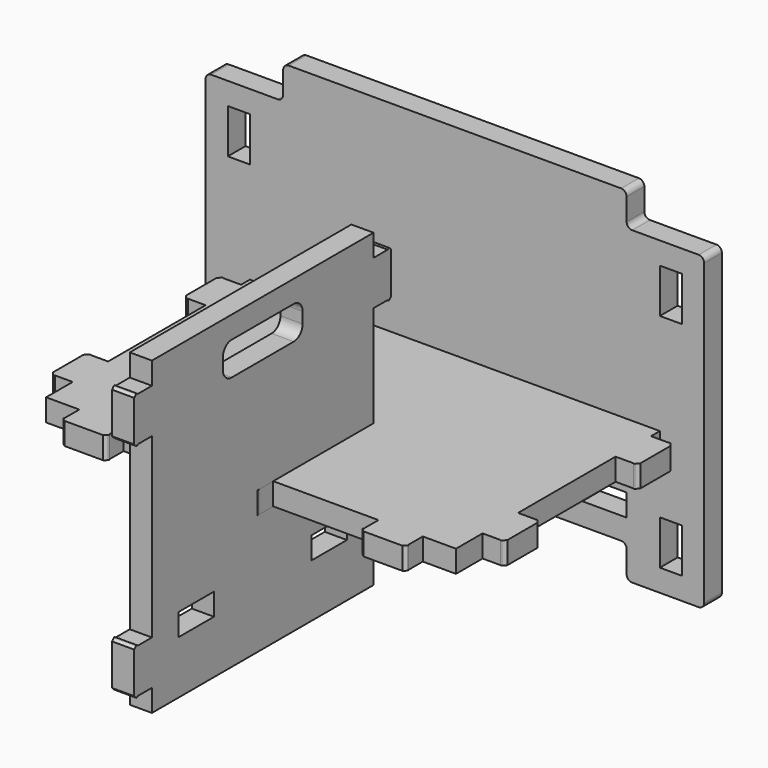
from build123d import *

# Parameters (mm, degrees)
F3_DEPTH = 20
F1_W     = 40
F1_H     = 20
F4_DEPTH = 20
F2_W     = 16
F2_H     = 40
F5_DEPTH = 20


with BuildPart() as f3:
    # F0 (on Front) → F3 (new body)
    with BuildSketch(Plane.XZ):
        with BuildLine():
            ThreePointArc((-155, -83.550865), (-153.535534, -80.015331), (-150, -78.550865))
            Line((-150, -78.550865), (150, -78.550865))
            ThreePointArc((150, -78.550865), (153.535534, -80.015331), (155, -83.550865))
            Line((155, -83.550865), (155, -103.550865))
            ThreePointArc((155, -103.550865), (156.464466, -107.086399), (160, -108.550865))
            Line((160, -108.550865), (220, -108.550865))
            ThreePointArc((220, -108.550865), (223.535534, -107.086399), (225, -103.550865))
            Line((225, -103.550865), (225, -80.550865))
            Line((225, -80.550865), (225, -78.550865))
            Line((225, -78.550865), (225, 166.449135))
            ThreePointArc((225, 166.449135), (223.535534, 169.984669), (220, 171.449135))
            Line((220, 171.449135), (185, 171.449135))
            Line((185, 171.449135), (185, 151.449135))
            Line((185, 151.449135), (205, 151.449135))
            Line((205, 151.449135), (205, 111.449135))
            Line((205, 111.449135), (185, 111.449135))
            Line((185, 111.449135), (185, -38.550865))
            Line((185, -38.550865), (155, -38.550865))
            Line((155, -38.550865), (155, -58.550865))
            Line((155, -58.550865), (115, -58.550865))
            Line((115, -58.550865), (115, -38.550865))
            Line((115, -38.550865), (20, -38.550865))
            Line((20, -38.550865), (20, -58.550865))
            Line((20, -58.550865), (-20, -58.550865))
            Line((-20, -58.550865), (-20, -38.550865))
            Line((-20, -38.550865), (-115, -38.550865))
            Line((-115, -38.550865), (-115, -58.550865))
            Line((-115, -58.550865), (-155, -58.550865))
            Line((-155, -58.550865), (-155, -38.550865))
            Line((-155, -38.550865), (-185, -38.550865))
            Line((-185, -38.550865), (-185, 111.449135))
            Line((-185, 111.449135), (-205, 111.449135))
            Line((-205, 111.449135), (-205, 151.449135))
            Line((-205, 151.449135), (-185, 151.449135))
            Line((-185, 151.449135), (-185, 171.449135))
            Line((-185, 171.449135), (-205, 171.449135))
            Line((-205, 171.449135), (-220, 171.449135))
            ThreePointArc((-220, 171.449135), (-223.535534, 169.984669), (-225, 166.449135))
            Line((-225, 166.449135), (-225, -78.550865))
            Line((-225, -78.550865), (-225, -103.550865))
            ThreePointArc((-225, -103.550865), (-223.535534, -107.086399), (-220, -108.550865))
            Line((-220, -108.550865), (-160, -108.550865))
            ThreePointArc((-160, -108.550865), (-156.464466, -107.086399), (-155, -103.550865))
            Line((-155, -103.550865), (-155, -83.550865))
        make_face()
        Polygon((-205, -88.550865), (-205, -78.550865), (-205, -48.550865), (-185, -48.550865), (-185, -78.550865), (-185, -88.550865), align=None, mode=Mode.SUBTRACT)
        Polygon((205, -48.550865), (205, -78.550865), (205, -88.550865), (185, -88.550865), (185, -78.550865), (185, -48.550865), align=None, mode=Mode.SUBTRACT)
        Polygon((-160, 171.449135), (-185, 171.449135), (-185, 151.449135), (-185, 111.449135), (-185, -38.550865), (-155, -38.550865), (-115, -38.550865), (-20, -38.550865), (20, -38.550865), (115, -38.550865), (155, -38.550865), (185, -38.550865), (185, 111.449135), (185, 151.449135), (185, 171.449135), (160, 171.449135), (155, 171.449135), align=None)
        with BuildLine():
            ThreePointArc((-155, 176.449135), (-156.464466, 172.913601), (-160, 171.449135))
            Line((-160, 171.449135), (155, 171.449135))
            Line((155, 171.449135), (160, 171.449135))
            ThreePointArc((160, 171.449135), (156.464466, 172.913601), (155, 176.449135))
            Line((155, 176.449135), (155, 196.449135))
            ThreePointArc((155, 196.449135), (153.535534, 199.984669), (150, 201.449135))
            Line((150, 201.449135), (-150, 201.449135))
            ThreePointArc((-150, 201.449135), (-153.535534, 199.984669), (-155, 196.449135))
            Line((-155, 196.449135), (-155, 176.449135))
        make_face()
    extrude(amount=F3_DEPTH)


with BuildPart() as f4:
    # F1 (on Right) → F4 (new body)
    with BuildSketch(Plane.YZ):
        Polygon((-386.832327, -108.550865), (-136.832327, -108.550865), (-136.832327, -88.550865), (-136.832327, -48.550865), (-136.832327, 111.449135), (-136.832327, 151.449135), (-136.832327, 171.449135), (-386.832327, 171.449135), (-386.832327, 151.449135), (-386.832327, 111.449135), (-386.832327, -48.550865), (-386.832327, -88.550865), align=None)
        with Locations((-336.832327, -50.550865)):
            Rectangle(F1_W, F1_H, mode=Mode.SUBTRACT)
        with Locations((-186.832327, -50.550865)):
            Rectangle(F1_W, F1_H, mode=Mode.SUBTRACT)
        with BuildLine():
            Line((-296.832327, 151.449135), (-226.832327, 151.449135))
            ThreePointArc((-226.832327, 151.449135), (-219.761259, 148.520203), (-216.832327, 141.449135))
            Line((-216.832327, 141.449135), (-216.832327, 131.449135))
            ThreePointArc((-216.832327, 131.449135), (-219.761259, 124.378067), (-226.832327, 121.449135))
            Line((-226.832327, 121.449135), (-296.832327, 121.449135))
            ThreePointArc((-296.832327, 121.449135), (-303.903394, 124.378067), (-306.832327, 131.449135))
            Line((-306.832327, 131.449135), (-306.832327, 141.449135))
            ThreePointArc((-306.832327, 141.449135), (-303.903394, 148.520203), (-296.832327, 151.449135))
        make_face(mode=Mode.SUBTRACT)
        Polygon((-136.832327, -48.550865), (-136.832327, -88.550865), (-120.832327, -88.550865), (-120.832327, -68.550865), (-120.832327, -48.550865), align=None)
        Polygon((-402.832327, -88.550865), (-386.832327, -88.550865), (-386.832327, -48.550865), (-402.832327, -48.550865), (-402.832327, -68.550865), align=None)
        with BuildLine():
            Line((-120.832327, -68.550865), (-120.832327, -88.550865))
            Line((-120.832327, -88.550865), (-120.26851, -89.107587))
            ThreePointArc((-120.26851, -89.107587), (-119.559563, -89.395997), (-118.854325, -89.098632))
            Line((-118.854325, -89.098632), (-116.832327, -87.050865))
            Line((-116.832327, -87.050865), (-116.832327, -68.550865))
            Line((-116.832327, -68.550865), (-116.832327, -50.050865))
            Line((-116.832327, -50.050865), (-118.854325, -48.003098))
            ThreePointArc((-118.854325, -48.003098), (-119.559563, -47.705733), (-120.26851, -47.994143))
            Line((-120.26851, -47.994143), (-120.832327, -48.550865))
            Line((-120.832327, -48.550865), (-120.832327, -68.550865))
        make_face()
        with BuildLine():
            Line((-403.396143, -89.107587), (-402.832327, -88.550865))
            Line((-402.832327, -88.550865), (-402.832327, -68.550865))
            Line((-402.832327, -68.550865), (-402.832327, -48.550865))
            Line((-402.832327, -48.550865), (-403.396143, -47.994143))
            ThreePointArc((-403.396143, -47.994143), (-404.105091, -47.705733), (-404.810329, -48.003098))
            Line((-404.810329, -48.003098), (-406.832327, -50.050865))
            Line((-406.832327, -50.050865), (-406.832327, -68.550865))
            Line((-406.832327, -68.550865), (-406.832327, -87.050865))
            Line((-406.832327, -87.050865), (-404.810329, -89.098632))
            ThreePointArc((-404.810329, -89.098632), (-404.105091, -89.395997), (-403.396143, -89.107587))
        make_face()
        Polygon((-136.832327, 151.449135), (-136.832327, 111.449135), (-120.832327, 111.449135), (-120.832327, 131.449135), (-120.832327, 151.449135), align=None)
        Polygon((-402.832327, 111.449135), (-386.832327, 111.449135), (-386.832327, 151.449135), (-402.832327, 151.449135), (-402.832327, 131.449135), align=None)
        with BuildLine():
            Line((-120.832327, 131.449135), (-120.832327, 111.449135))
            Line((-120.832327, 111.449135), (-120.26851, 110.892413))
            ThreePointArc((-120.26851, 110.892413), (-119.559563, 110.604003), (-118.854325, 110.901368))
            Line((-118.854325, 110.901368), (-116.832327, 112.949135))
            Line((-116.832327, 112.949135), (-116.832327, 131.449135))
            Line((-116.832327, 131.449135), (-116.832327, 149.949135))
            Line((-116.832327, 149.949135), (-118.854325, 151.996902))
            ThreePointArc((-118.854325, 151.996902), (-119.559563, 152.294267), (-120.26851, 152.005857))
            Line((-120.26851, 152.005857), (-120.832327, 151.449135))
            Line((-120.832327, 151.449135), (-120.832327, 131.449135))
        make_face()
        with BuildLine():
            Line((-403.396143, 110.892413), (-402.832327, 111.449135))
            Line((-402.832327, 111.449135), (-402.832327, 131.449135))
            Line((-402.832327, 131.449135), (-402.832327, 151.449135))
            Line((-402.832327, 151.449135), (-403.396143, 152.005857))
            ThreePointArc((-403.396143, 152.005857), (-404.105091, 152.294267), (-404.810329, 151.996902))
            Line((-404.810329, 151.996902), (-406.832327, 149.949135))
            Line((-406.832327, 149.949135), (-406.832327, 131.449135))
            Line((-406.832327, 131.449135), (-406.832327, 112.949135))
            Line((-406.832327, 112.949135), (-404.810329, 110.901368))
            ThreePointArc((-404.810329, 110.901368), (-404.105091, 110.604003), (-403.396143, 110.892413))
        make_face()
    extrude(amount=F4_DEPTH)


with BuildPart() as f5:
    # F2 (on Top) → F5 (new body)
    with BuildSketch(Plane.XY):
        Polygon((-155, 0), (-185, 0), (-185, -30), (-185, -70), (-185, -180), (-185, -220), (-185, -250), (-155, -250), (-115, -250), (-20, -250), (20, -250), (115, -250), (155, -250), (185, -250), (185, -220), (185, -180), (185, -70), (185, -30), (185, 0), (155, 0), (115, 0), (20, 0), (-20, 0), (-115, 0), align=None)
        Polygon((-155, 16), (-155, 0), (-115, 0), (-115, 16), (-135, 16), align=None)
        with Locations((-193, -50)):
            Rectangle(F2_W, F2_H)
        with BuildLine():
            Line((-155.256755, 16.297232), (-155, 16))
            Line((-155, 16), (-135, 16))
            Line((-135, 16), (-115, 16))
            Line((-115, 16), (-114.743245, 16.297232))
            ThreePointArc((-114.743245, 16.297232), (-114.502659, 17.023803), (-114.846301, 17.707686))
            Line((-114.846301, 17.707686), (-117.5, 20))
            Line((-117.5, 20), (-135, 20))
            Line((-135, 20), (-152.5, 20))
            Line((-152.5, 20), (-155.153699, 17.707686))
            ThreePointArc((-155.153699, 17.707686), (-155.497341, 17.023803), (-155.256755, 16.297232))
        make_face()
        with BuildLine():
            Line((-201, -70), (-201, -30))
            Line((-201, -30), (-201.256824, -29.844946))
            ThreePointArc((-201.256824, -29.844946), (-201.918554, -29.693814), (-202.524341, -30))
            Line((-202.524341, -30), (-205, -33))
            Line((-205, -33), (-205, -50))
            Line((-205, -50), (-205, -67))
            Line((-205, -67), (-202.524341, -70))
            ThreePointArc((-202.524341, -70), (-201.918554, -70.306186), (-201.256824, -70.155054))
            Line((-201.256824, -70.155054), (-201, -70))
        make_face()
        Polygon((-20, 16), (-20, 0), (20, 0), (20, 16), (0, 16), align=None)
        with Locations((-193, -200)):
            Rectangle(F2_W, F2_H)
        with BuildLine():
            Line((-20.256755, 16.297232), (-20, 16))
            Line((-20, 16), (0, 16))
            Line((0, 16), (20, 16))
            Line((20, 16), (20.256755, 16.297232))
            ThreePointArc((20.256755, 16.297232), (20.497341, 17.023803), (20.153699, 17.707686))
            Line((20.153699, 17.707686), (17.5, 20))
            Line((17.5, 20), (0, 20))
            Line((0, 20), (-17.5, 20))
            Line((-17.5, 20), (-20.153699, 17.707686))
            ThreePointArc((-20.153699, 17.707686), (-20.497341, 17.023803), (-20.256755, 16.297232))
        make_face()
        with BuildLine():
            Line((-201, -220), (-201, -180))
            Line((-201, -180), (-201.256824, -179.844946))
            ThreePointArc((-201.256824, -179.844946), (-201.918554, -179.693814), (-202.524341, -180))
            Line((-202.524341, -180), (-205, -183))
            Line((-205, -183), (-205, -200))
            Line((-205, -200), (-205, -217))
            Line((-205, -217), (-202.524341, -220))
            ThreePointArc((-202.524341, -220), (-201.918554, -220.306186), (-201.256824, -220.155054))
            Line((-201.256824, -220.155054), (-201, -220))
        make_face()
        Polygon((115, 16), (115, 0), (155, 0), (155, 16), (135, 16), align=None)
        with BuildLine():
            Line((114.743245, 16.297232), (115, 16))
            Line((115, 16), (135, 16))
            Line((135, 16), (155, 16))
            Line((155, 16), (155.256755, 16.297232))
            ThreePointArc((155.256755, 16.297232), (155.497341, 17.023803), (155.153699, 17.707686))
            Line((155.153699, 17.707686), (152.5, 20))
            Line((152.5, 20), (135, 20))
            Line((135, 20), (117.5, 20))
            Line((117.5, 20), (114.846301, 17.707686))
            ThreePointArc((114.846301, 17.707686), (114.502659, 17.023803), (114.743245, 16.297232))
        make_face()
        Polygon((-115, -250), (-155, -250), (-155, -266), (-135, -266), (-115, -266), align=None)
        with BuildLine():
            Line((-135, -266), (-155, -266))
            Line((-155, -266), (-155.256755, -266.297232))
            ThreePointArc((-155.256755, -266.297232), (-155.497341, -267.023803), (-155.153699, -267.707686))
            Line((-155.153699, -267.707686), (-152.5, -270))
            Line((-152.5, -270), (-135, -270))
            Line((-135, -270), (-117.5, -270))
            Line((-117.5, -270), (-114.846301, -267.707686))
            ThreePointArc((-114.846301, -267.707686), (-114.502659, -267.023803), (-114.743245, -266.297232))
            Line((-114.743245, -266.297232), (-115, -266))
            Line((-115, -266), (-135, -266))
        make_face()
        with Locations((193, -50)):
            Rectangle(F2_W, F2_H)
        Polygon((20, -250), (-20, -250), (-20, -266), (0, -266), (20, -266), align=None)
        with BuildLine():
            Line((201.256824, -29.844946), (201, -30))
            Line((201, -30), (201, -70))
            Line((201, -70), (201.256824, -70.155054))
            ThreePointArc((201.256824, -70.155054), (201.918554, -70.306186), (202.524341, -70))
            Line((202.524341, -70), (205, -67))
            Line((205, -67), (205, -50))
            Line((205, -50), (205, -33))
            Line((205, -33), (202.524341, -30))
            ThreePointArc((202.524341, -30), (201.918554, -29.693814), (201.256824, -29.844946))
        make_face()
        with BuildLine():
            Line((0, -266), (-20, -266))
            Line((-20, -266), (-20.256755, -266.297232))
            ThreePointArc((-20.256755, -266.297232), (-20.497341, -267.023803), (-20.153699, -267.707686))
            Line((-20.153699, -267.707686), (-17.5, -270))
            Line((-17.5, -270), (0, -270))
            Line((0, -270), (17.5, -270))
            Line((17.5, -270), (20.153699, -267.707686))
            ThreePointArc((20.153699, -267.707686), (20.497341, -267.023803), (20.256755, -266.297232))
            Line((20.256755, -266.297232), (20, -266))
            Line((20, -266), (0, -266))
        make_face()
        with Locations((193, -200)):
            Rectangle(F2_W, F2_H)
        Polygon((155, -250), (115, -250), (115, -266), (135, -266), (155, -266), align=None)
        with BuildLine():
            Line((201.256824, -179.844946), (201, -180))
            Line((201, -180), (201, -220))
            Line((201, -220), (201.256824, -220.155054))
            ThreePointArc((201.256824, -220.155054), (201.918554, -220.306186), (202.524341, -220))
            Line((202.524341, -220), (205, -217))
            Line((205, -217), (205, -200))
            Line((205, -200), (205, -183))
            Line((205, -183), (202.524341, -180))
            ThreePointArc((202.524341, -180), (201.918554, -179.693814), (201.256824, -179.844946))
        make_face()
        with BuildLine():
            Line((135, -266), (115, -266))
            Line((115, -266), (114.743245, -266.297232))
            ThreePointArc((114.743245, -266.297232), (114.502659, -267.023803), (114.846301, -267.707686))
            Line((114.846301, -267.707686), (117.5, -270))
            Line((117.5, -270), (135, -270))
            Line((135, -270), (152.5, -270))
            Line((152.5, -270), (155.153699, -267.707686))
            ThreePointArc((155.153699, -267.707686), (155.497341, -267.023803), (155.256755, -266.297232))
            Line((155.256755, -266.297232), (155, -266))
            Line((155, -266), (135, -266))
        make_face()
    extrude(amount=F5_DEPTH)


solid = Compound([f3.part, f4.part, f5.part])
